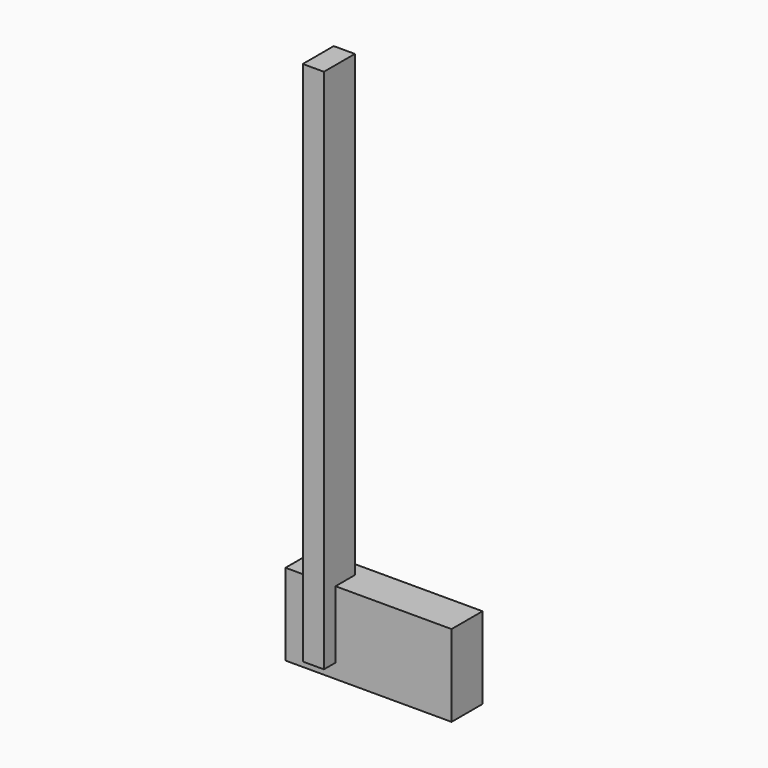
from build123d import *

# Parameters (mm, degrees)
F0_W      = 5.546972
F0_H      = 138.182447
F1_DEPTH  = 3.81
F2_W      = 43.612801
F2_H      = 21.465085
F1_FACE_W = 5.546972
F1_FACE_H = 138.182446
F3_DEPTH  = 10.16


with BuildPart() as f1:
    # F0 (on Front) → F1 (new body)
    with BuildSketch(Plane.XZ):
        with Locations((-105.669826, -18.023566)):
            Rectangle(F0_W, F0_H)
    extrude(amount=F1_DEPTH)

    # F2 (on Front) + F1_face (on face) → F3 (join)
    with BuildSketch(Plane.XZ):
        with Locations((-94.226289, -80.174383)):
            Rectangle(F2_W, F2_H)
    with BuildSketch(Plane(origin=(-105.669826, -3.81, -18.023565), x_dir=(1, 0, 0), z_dir=(0, -1, 0))):
        Rectangle(F1_FACE_W, F1_FACE_H)
    extrude(amount=-F3_DEPTH)


solid = f1.part
